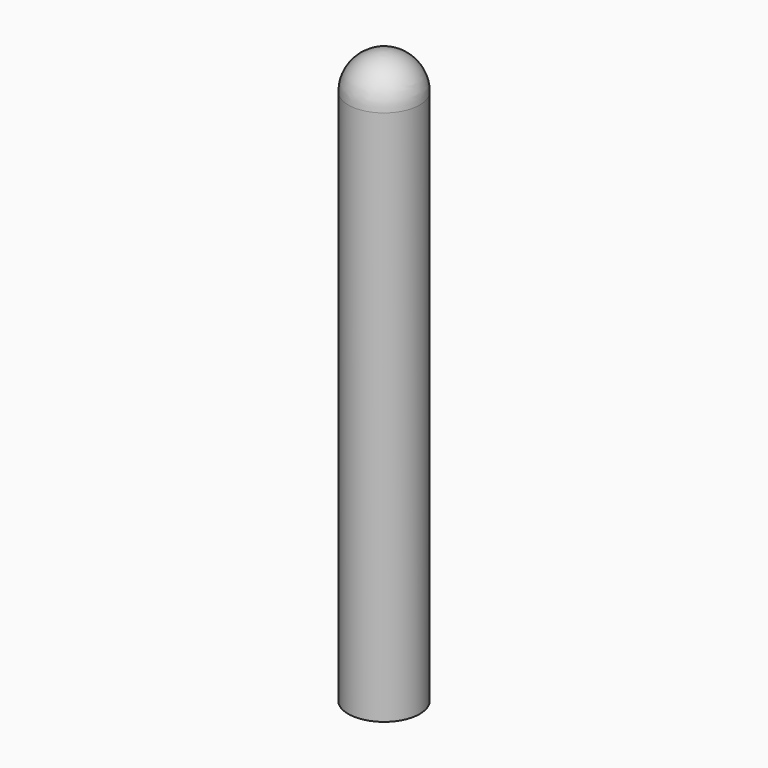
from build123d import *

# Parameters (mm, degrees)
F0_R     = 12.5
F0_R_2   = 11
F1_DEPTH = 187.5


with BuildPart() as f1:
    # F0 (on Top) → F1 (new body)
    with BuildSketch(Plane.XY):
        Circle(F0_R)
        Circle(F0_R_2, mode=Mode.SUBTRACT)
    extrude(amount=F1_DEPTH)

    # F2 (on Front) → F3 (revolve)
    with BuildSketch(Plane.XZ):
        with BuildLine():
            ThreePointArc((0, 200), (-8.838835, 196.338835), (-12.5, 187.5))
            Line((-12.5, 187.5), (-11, 187.5))
            ThreePointArc((-11, 187.5), (-7.778175, 195.278175), (0, 198.5))
            Line((0, 198.5), (0, 200))
        make_face()
    revolve(axis=Axis((0, 0, 193.75), (0, 0, 1)))


solid = f1.part
